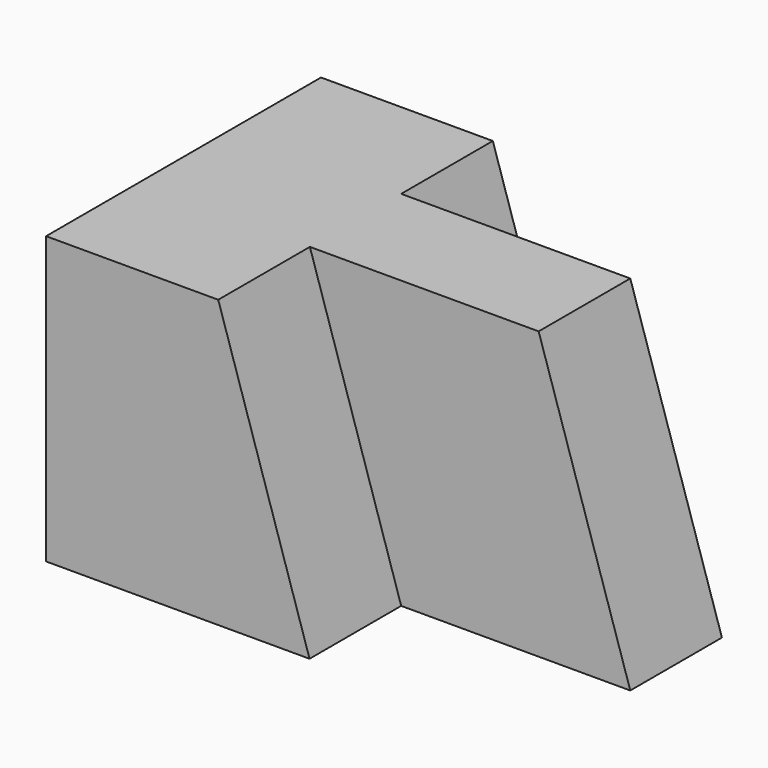
from build123d import *

# Parameters (mm, degrees)
F1_DEPTH = 38.1
F3_DEPTH = 12.7
F4_DEPTH = 12.7
F6_DEPTH = 12.7


with BuildPart() as f1:
    # F0 (on Front) → F1 (new body)
    with BuildSketch(Plane.XZ):
        Polygon((0, 31.75), (0, 0), (54.61, 0), (44.45, 31.75), align=None)
    extrude(amount=F1_DEPTH)

    # F2 (on face) → F3 (cut)
    with BuildSketch(Plane(origin=(0, 0, 0), x_dir=(-1, 0, 0), z_dir=(0, 1, 0))):
        Polygon((44.420516, 31.673804), (19.705663, 31.673804), (28.255075, -0.054016), (54.679817, -0.054016), align=None)
        Polygon((-44.45, 31.75), (-54.61, 0), (-29.17323, 0), (-19.05, 31.75), align=None)
    extrude(amount=-F3_DEPTH, mode=Mode.SUBTRACT)

    # F2 (on face) → F4 (cut)
    with BuildSketch(Plane(origin=(0, 0, 0), x_dir=(-1, 0, 0), z_dir=(0, 1, 0))):
        Polygon((44.420516, 31.673804), (19.705663, 31.673804), (28.255075, -0.054016), (54.679817, -0.054016), align=None)
        Polygon((-44.45, 31.75), (-54.61, 0), (-29.17323, 0), (-19.05, 31.75), align=None)
    extrude(amount=-F4_DEPTH, mode=Mode.SUBTRACT)

    # F5 (on face) → F6 (cut)
    with BuildSketch(Plane.XZ.offset(38.1)):
        Polygon((29.21, 0), (54.61, 0), (44.45, 31.75), (19.08677, 31.75), align=None)
    extrude(amount=-F6_DEPTH, mode=Mode.SUBTRACT)


solid = f1.part
